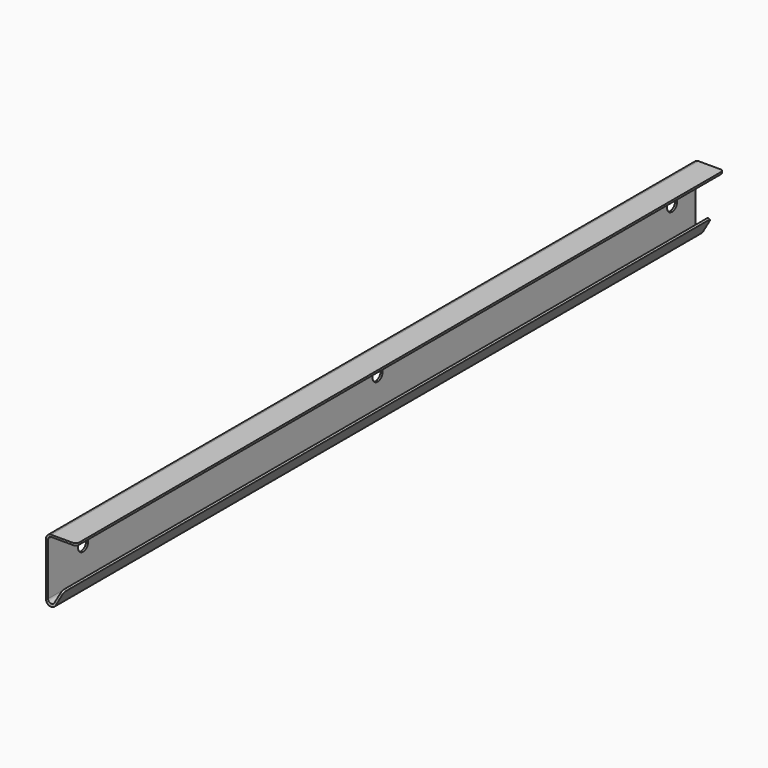
from build123d import *

# Parameters (mm, degrees)
F1_DEPTH = 609.6
F3_R     = 2.54
F4_R     = 4.7625
F5_DEPTH = 25.4


with BuildPart() as f1:
    # F0 (on Front) → F1 (new body)
    with BuildSketch(Plane.XZ):
        with BuildLine():
            Line((-20.234578, 19.260229), (-1.413178, 19.260229))
            Line((-1.413178, 19.260229), (-1.413178, 20.758829))
            Line((-1.413178, 20.758829), (-20.463178, 20.758829))
            ThreePointArc((-20.463178, 20.758829), (-23.157255, 19.642906), (-24.273178, 16.948829))
            Line((-24.273178, 16.948829), (-24.273178, -23.307944))
            ThreePointArc((-24.273178, -23.307944), (-21.449279, -26.988121), (-17.163621, -25.212944))
            Line((-17.163621, -25.212944), (-10.813621, -14.214421))
            Line((-10.813621, -14.214421), (-12.111447, -13.465121))
            Line((-12.111447, -13.465121), (-18.034874, -23.724797))
            ThreePointArc((-18.034874, -23.724797), (-20.891979, -24.908249), (-22.774578, -22.454797))
            Line((-22.774578, -22.454797), (-22.774578, 16.720229))
            ThreePointArc((-22.774578, 16.720229), (-22.030629, 18.51628), (-20.234578, 19.260229))
        make_face()
    extrude(amount=-F1_DEPTH)

    # F3
    f3_edges = [f1.edges().sort_by_distance(p)[0] for p in [
        (-1.413178, 0, 20.009529),
        (-11.462534, 0, -13.839771),
        (-11.462534, 609.6, -13.839771),
        (-1.413178, 609.6, 20.009529),
    ]]
    fillet(f3_edges, radius=F3_R)

    # F4 (on face) → F5 (cut)
    with BuildSketch(Plane.YZ.offset(-22.774578)):
        with Locations((32.974709, 0)):
            Circle(F4_R)
        with Locations((310.342709, 0)):
            Circle(F4_R)
        with Locations((587.710709, 0)):
            Circle(F4_R)
    extrude(amount=-F5_DEPTH, mode=Mode.SUBTRACT)


solid = f1.part
